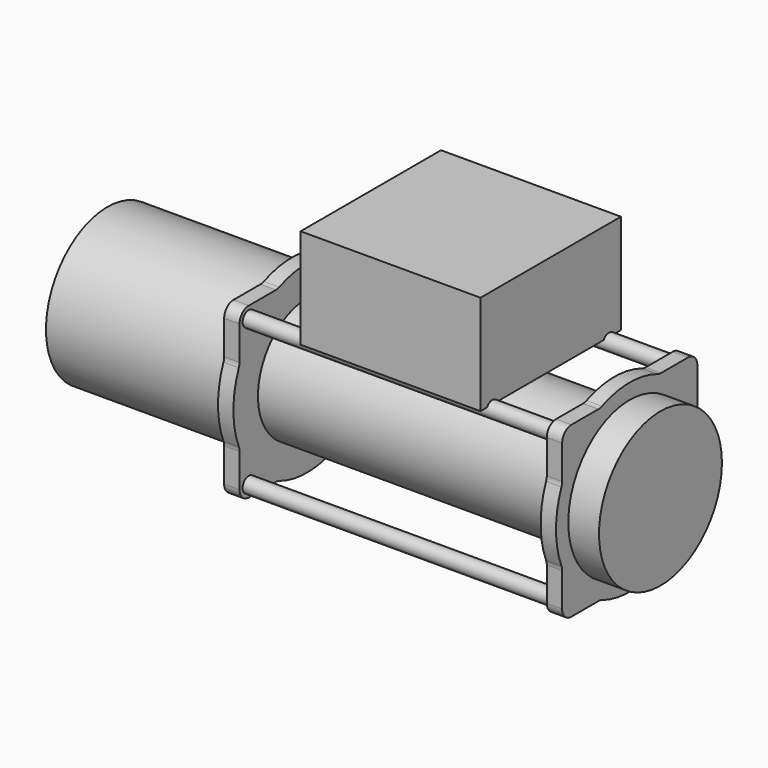
from build123d import *

# Parameters (mm, degrees)
F0_R          = 63.5
F1_DEPTH      = 152.4
F2_R          = 63.5
F3_DEPTH      = 12.7
F4_R          = 50.8
F4_R_2        = 6.35
F5_DEPTH      = 254
F6_R          = 50.8
F7_DEPTH      = 12.7
F8_W          = 148.7337000847
F8_H          = 72.5575238466
F9_DEPTH      = 76.2
F9_DEPTH_BACK = 6.35
F10_R         = 63.5
F11_DEPTH     = 25.4


with BuildPart() as f1:
    # F0 (on Right) → F1 (new body)
    with BuildSketch(Plane.YZ):
        Circle(F0_R)
    extrude(amount=F1_DEPTH)

    # F2 (on face) → F3 (join)
    with BuildSketch(Plane.YZ.offset(152.4)):
        with BuildLine():
            ThreePointArc((-69.85, 32.3787739113), (-70.0280530831, 30.5456868066), (-70.5555555556, 28.7811323656))
            ThreePointArc((-70.5555555556, 28.7811323656), (-76.2, 0), (-70.5555555556, -28.7811323656))
            ThreePointArc((-70.5555555556, -28.7811323656), (-70.0280530831, -30.5456868066), (-69.85, -32.3787739113))
            Line((-69.85, -32.3787739113), (-69.85, -60.325))
            ThreePointArc((-69.85, -60.325), (-67.0601920908, -67.0601920908), (-60.325, -69.85))
            Line((-60.325, -69.85), (-32.3787739113, -69.85))
            ThreePointArc((-32.3787739113, -69.85), (-30.5456868066, -70.0280530831), (-28.7811323656, -70.5555555556))
            ThreePointArc((-28.7811323656, -70.5555555556), (0, -76.2), (28.7811323656, -70.5555555556))
            ThreePointArc((28.7811323656, -70.5555555556), (30.5456868066, -70.0280530831), (32.3787739113, -69.85))
            Line((32.3787739113, -69.85), (60.325, -69.85))
            ThreePointArc((60.325, -69.85), (67.0601920908, -67.0601920908), (69.85, -60.325))
            Line((69.85, -60.325), (69.85, -32.3787739113))
            ThreePointArc((69.85, -32.3787739113), (70.0280530831, -30.5456868066), (70.5555555556, -28.7811323656))
            ThreePointArc((70.5555555556, -28.7811323656), (76.2, 0), (70.5555555556, 28.7811323656))
            ThreePointArc((70.5555555556, 28.7811323656), (70.0280530831, 30.5456868066), (69.85, 32.3787739113))
            Line((69.85, 32.3787739113), (69.85, 60.325))
            ThreePointArc((69.85, 60.325), (67.0601920908, 67.0601920908), (60.325, 69.85))
            Line((60.325, 69.85), (32.3787739113, 69.85))
            ThreePointArc((32.3787739113, 69.85), (30.5456868066, 70.0280530831), (28.7811323656, 70.5555555556))
            ThreePointArc((28.7811323656, 70.5555555556), (0, 76.2), (-28.7811323656, 70.5555555556))
            ThreePointArc((-28.7811323656, 70.5555555556), (-30.5456868066, 70.0280530831), (-32.3787739113, 69.85))
            Line((-32.3787739113, 69.85), (-60.325, 69.85))
            ThreePointArc((-60.325, 69.85), (-67.0601920908, 67.0601920908), (-69.85, 60.325))
            Line((-69.85, 60.325), (-69.85, 32.3787739113))
        make_face()
        Circle(F2_R, mode=Mode.SUBTRACT)
        Circle(F2_R)
    extrude(amount=F3_DEPTH)

    # F4 (on face) → F5 (join)
    with BuildSketch(Plane.YZ.offset(165.1)):
        Circle(F4_R)
        with Locations((60.325, 60.325)):
            Circle(F4_R_2)
        with Locations((60.325, -60.325)):
            Circle(F4_R_2)
        with Locations((-60.325, -60.325)):
            Circle(F4_R_2)
        with Locations((-60.325, 60.325)):
            Circle(F4_R_2)
    extrude(amount=F5_DEPTH)

    # F6 (on face) → F7 (join)
    with BuildSketch(Plane.YZ.offset(419.1)):
        with BuildLine():
            ThreePointArc((-69.85, 32.3787739113), (-70.0280530831, 30.5456868066), (-70.5555555556, 28.7811323656))
            ThreePointArc((-70.5555555556, 28.7811323656), (-76.2, 0), (-70.5555555556, -28.7811323656))
            ThreePointArc((-70.5555555556, -28.7811323656), (-70.0280530831, -30.5456868066), (-69.85, -32.3787739113))
            Line((-69.85, -32.3787739113), (-69.85, -60.325))
            ThreePointArc((-69.85, -60.325), (-67.0601920908, -67.0601920908), (-60.325, -69.85))
            Line((-60.325, -69.85), (-32.3787739113, -69.85))
            ThreePointArc((-32.3787739113, -69.85), (-30.5456868066, -70.0280530831), (-28.7811323656, -70.5555555556))
            ThreePointArc((-28.7811323656, -70.5555555556), (0, -76.2), (28.7811323656, -70.5555555556))
            ThreePointArc((28.7811323656, -70.5555555556), (30.5456868066, -70.0280530831), (32.3787739113, -69.85))
            Line((32.3787739113, -69.85), (60.325, -69.85))
            ThreePointArc((60.325, -69.85), (67.0601920908, -67.0601920908), (69.85, -60.325))
            Line((69.85, -60.325), (69.85, -32.3787739113))
            ThreePointArc((69.85, -32.3787739113), (70.0280530831, -30.5456868066), (70.5555555556, -28.7811323656))
            ThreePointArc((70.5555555556, -28.7811323656), (76.2, 0), (70.5555555556, 28.7811323656))
            ThreePointArc((70.5555555556, 28.7811323656), (70.0280530831, 30.5456868066), (69.85, 32.3787739113))
            Line((69.85, 32.3787739113), (69.85, 60.325))
            ThreePointArc((69.85, 60.325), (67.0601920908, 67.0601920908), (60.325, 69.85))
            Line((60.325, 69.85), (32.3787739113, 69.85))
            ThreePointArc((32.3787739113, 69.85), (30.5456868066, 70.0280530831), (28.7811323656, 70.5555555556))
            ThreePointArc((28.7811323656, 70.5555555556), (0, 76.2), (-28.7811323656, 70.5555555556))
            ThreePointArc((-28.7811323656, 70.5555555556), (-30.5456868066, 70.0280530831), (-32.3787739113, 69.85))
            Line((-32.3787739113, 69.85), (-60.325, 69.85))
            ThreePointArc((-60.325, 69.85), (-67.0601920908, 67.0601920908), (-69.85, 60.325))
            Line((-69.85, 60.325), (-69.85, 32.3787739113))
        make_face()
        Circle(F6_R, mode=Mode.SUBTRACT)
        Circle(F6_R)
    extrude(amount=F7_DEPTH)

    # F8 (on face) → F9 (join, two sides)
    with BuildSketch(Plane.XY.offset(69.85)) as f9_sk:
        with Locations((292.1, 36.2787619233)):
            Rectangle(F8_W, F8_H)
        with Locations((292.1, -36.2787619233)):
            Rectangle(F8_W, F8_H)
    extrude(amount=F9_DEPTH)
    extrude(f9_sk.sketch, amount=-F9_DEPTH_BACK)

    # F10 (on face) → F11 (join)
    with BuildSketch(Plane.YZ.offset(431.8)):
        Circle(F10_R)
    extrude(amount=F11_DEPTH)


solid = f1.part
